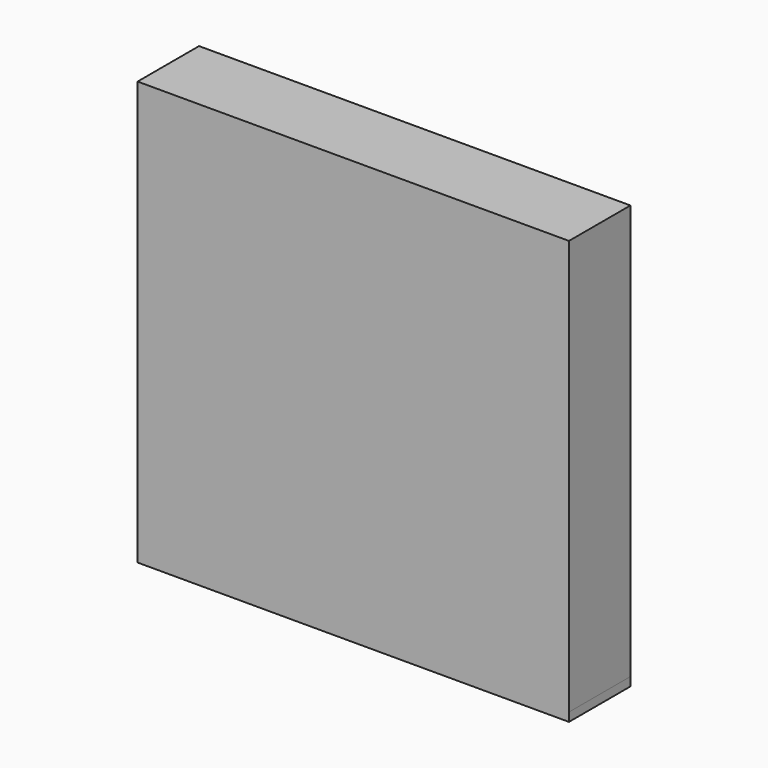
from build123d import *

# Parameters (mm, degrees)
F1_DEPTH      = 508
F1_FACE_W     = 110.071152
F1_FACE_H     = 508
F2_DEPTH      = 2743.2
F2_DEPTH_BACK = 25.4
F2_FACE_W     = 508
F2_FACE_H     = 2800.770394
F3_DEPTH      = 2743.2


with BuildPart() as f1:
    # F0 (on Front) → F1 (new body)
    with BuildSketch(Plane.XZ):
        Polygon((-52.71557, 14.951106), (-52.71557, -42.619288), (-47.366679, -42.619288), (57.355583, -42.619288), (57.355583, 14.951106), align=None)
    extrude(amount=F1_DEPTH)

    # F1_face (on face) → F2 (join, two sides)
    with BuildSketch(Plane(origin=(2.320006, -254, 14.951106), x_dir=(1, 0, 0), z_dir=(0, 0, 1))) as f2_sk:
        Rectangle(F1_FACE_W, F1_FACE_H)
    extrude(amount=F2_DEPTH)
    extrude(f2_sk.sketch, amount=-F2_DEPTH_BACK)

    # F2_face (on face) → F3 (join)
    with BuildSketch(Plane(origin=(-52.71557, -254, 1357.765909), x_dir=(0, -1, 0), z_dir=(-1, 0, 0))):
        Rectangle(F2_FACE_W, F2_FACE_H)
    extrude(amount=F3_DEPTH)


solid = f1.part
